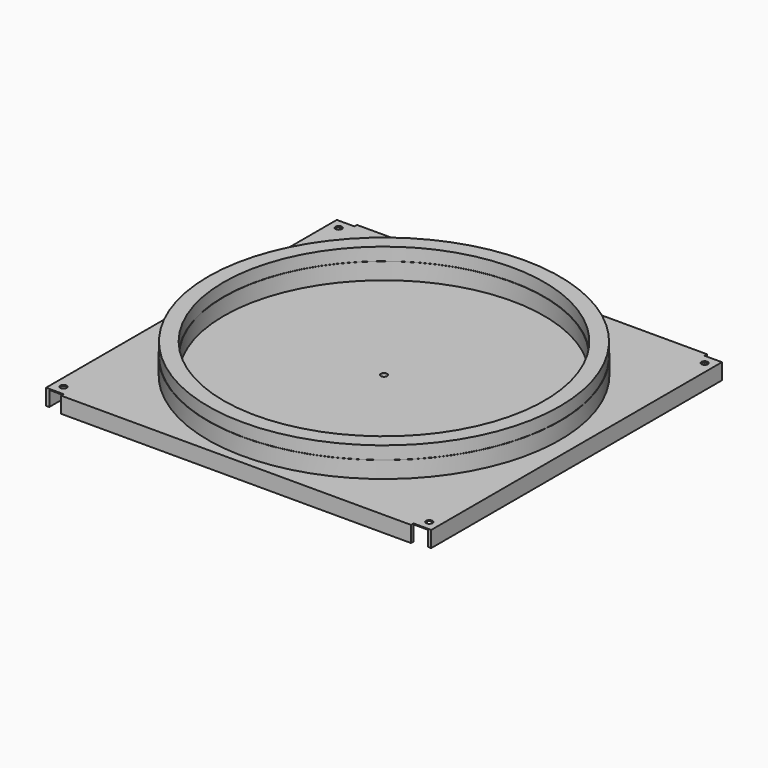
from build123d import *

# Parameters (mm, degrees)
F2_W     = 1203
F2_H     = 1135
F2_R     = 10
F2_R_2   = 501
F3_DEPTH = 3
F4_W     = 1093
F4_H     = 10
F4_W_2   = 10
F4_H_2   = 1135
F5_DEPTH = 50
F6_R     = 15
F6_R_2   = 10
F7_DEPTH = 50


with BuildPart() as f1:
    # F0 (on Front) → F1 (revolve)
    with BuildSketch(Plane.XZ):
        Polygon((-550, 3), (-500, 3), (-500, 55), (-501, 55), (-501, 95), (-549, 95), (-549, 55), (-550, 55), align=None)
        Polygon((-10, 3), (-500, 3), (-550, 3), (-550, 0), (-10, 0), align=None)
    revolve(axis=Axis((0, 0, 187.921241), (0, 0, -1)))

    # F2 (on Top) → F3 (join)
    with BuildSketch(Plane.XY):
        Rectangle(F2_W, F2_H)
        with Locations((-571.5, -537.5)):
            Circle(F2_R, mode=Mode.SUBTRACT)
        with Locations((571.5, -537.5)):
            Circle(F2_R, mode=Mode.SUBTRACT)
        with Locations((-571.5, 537.5)):
            Circle(F2_R, mode=Mode.SUBTRACT)
        Circle(F2_R_2, mode=Mode.SUBTRACT)
        with Locations((571.5, 537.5)):
            Circle(F2_R, mode=Mode.SUBTRACT)
    extrude(amount=F3_DEPTH)

    # F4 (on face) → F5 (join)
    with BuildSketch(Plane.XY.offset(3)):
        with Locations((0, -572.5)):
            Rectangle(F4_W, F4_H)
        with Locations((-596.5, 0)):
            Rectangle(F4_W_2, F4_H_2)
        with Locations((0, 572.5)):
            Rectangle(F4_W, F4_H)
        with Locations((596.5, 0)):
            Rectangle(F4_W_2, F4_H_2)
    extrude(amount=-F5_DEPTH)

    # F6 (on face) → F7 (join)
    with BuildSketch(Plane(origin=(0, 0, 0), x_dir=(1, 0, 0), z_dir=(0, 0, -1))):
        Circle(F6_R)
        Circle(F6_R_2, mode=Mode.SUBTRACT)
    extrude(amount=F7_DEPTH)


solid = f1.part
